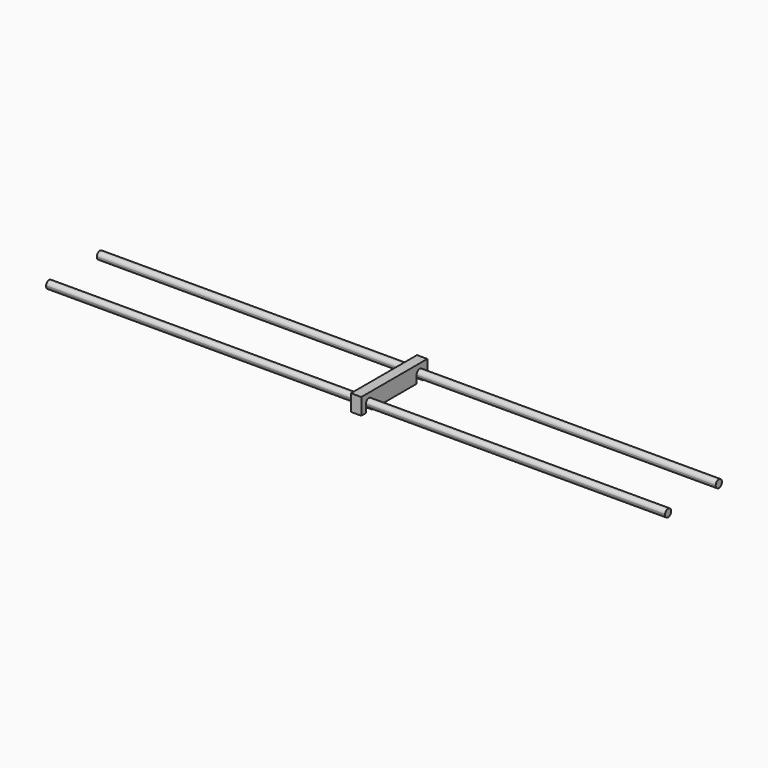
from build123d import *

# Parameters (mm, degrees)
F1_DEPTH = 25
F2_DEPTH = 750


with BuildPart() as f1:
    # F0 (on Right) → F1 (new body)
    with BuildSketch(Plane.YZ):
        with BuildLine():
            Line((104.362805, -0.296585), (-95.637195, -0.296585))
            Line((-95.637195, -0.296585), (-95.637195, -40.296585))
            Line((-95.637195, -40.296585), (-81.830681, -40.296585))
            Line((-81.830681, -40.296585), (-81.830681, -22.355005))
            ThreePointArc((-81.830681, -22.355005), (-81.887195, -21.325795), (-81.830681, -20.296585))
            ThreePointArc((-81.830681, -20.296585), (-71.971815, -11.939934), (-63.087195, -21.325795))
            Line((-63.087195, -21.325795), (-63.087195, -40.296585))
            Line((-63.087195, -40.296585), (71.812805, -40.296585))
            Line((71.812805, -40.296585), (71.812805, -21.325795))
            ThreePointArc((71.812805, -21.325795), (81.212805, -11.925795), (90.612805, -21.325795))
            ThreePointArc((90.612805, -21.325795), (90.612773, -21.35036), (90.612676, -21.374925))
            Line((90.612676, -21.374925), (90.612676, -40.296585))
            Line((90.612676, -40.296585), (104.362805, -40.296585))
            Line((104.362805, -40.296585), (104.362805, -0.296585))
        make_face()
    extrude(amount=F1_DEPTH)


with BuildPart() as f2:
    # F0 (on Right) → F2 (new body, symmetric)
    with BuildSketch(Plane.YZ):
        with BuildLine():
            ThreePointArc((71.812805, -21.325795), (81.18824, -30.725763), (90.612676, -21.374925))
            ThreePointArc((90.612676, -21.374925), (90.612773, -21.35036), (90.612805, -21.325795))
            ThreePointArc((90.612805, -21.325795), (81.212805, -11.925795), (71.812805, -21.325795))
        make_face()
        with BuildLine():
            Line((-81.830681, -20.296585), (-81.830681, -22.355005))
            ThreePointArc((-81.830681, -22.355005), (-71.971815, -30.711656), (-63.087195, -21.325795))
            ThreePointArc((-63.087195, -21.325795), (-71.971815, -11.939934), (-81.830681, -20.296585))
        make_face()
    extrude(amount=F2_DEPTH, both=True)


solid = Compound([f1.part, f2.part])
